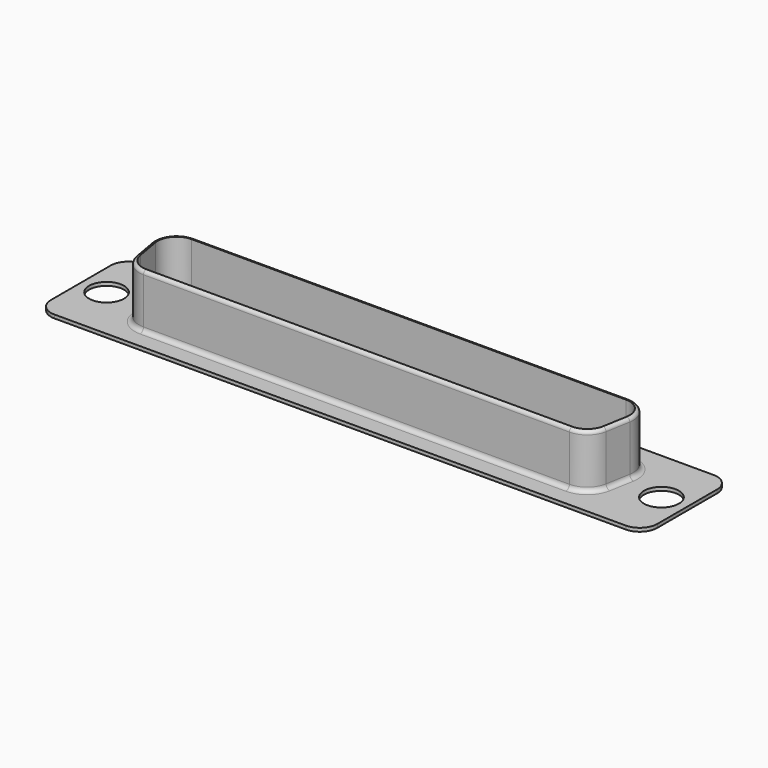
from build123d import *

# Parameters (mm, degrees)
PAD_DEPTH       = 0.4
SKETCH001_R     = 2
POCKET_DEPTH    = 5
PAD001_DEPTH    = 6.15
POCKET001_DEPTH = 6.551
FILLET_R        = 0.5
FILLET001_R     = 0.39
FILLET002_R     = 0.9


with BuildPart() as part:
    # Sketch → Pad (new body)
    with BuildSketch(Plane.XY):
        with BuildLine():
            Line((-32.7, 6.275), (32.7, 6.275))
            ThreePointArc((34.7, 4.275), (34.114214, 5.689214), (32.7, 6.275))
            Line((34.7, 4.275), (34.7, -4.275))
            ThreePointArc((32.7, -6.275), (34.114214, -5.689214), (34.7, -4.275))
            Line((32.7, -6.275), (-32.7, -6.275))
            ThreePointArc((-34.7, -4.275), (-34.114214, -5.689214), (-32.7, -6.275))
            Line((-34.7, -4.275), (-34.7, 4.275))
            ThreePointArc((-32.7, 6.275), (-34.114214, 5.689214), (-34.7, 4.275))
        make_face()
    extrude(amount=PAD_DEPTH)

    # Sketch001 (on Face10 of Pad) → Pocket (cut)
    with BuildSketch(Plane.XY.offset(0.4)):
        with Locations((-31.755, 0)):
            Circle(SKETCH001_R)
        with Locations((31.755, 0)):
            Circle(SKETCH001_R)
    extrude(amount=-POCKET_DEPTH, mode=Mode.SUBTRACT)

    # Sketch002 (on Face5 of Pocket) → Pad001 (join)
    with BuildSketch(Plane.XY.offset(0.4)):
        with BuildLine():
            Line((-24.865, 3.935), (24.865, 3.935))
            ThreePointArc((27.371365, 0.948231), (26.814529, 3.025959), (24.865, 3.935))
            Line((27.371365, 0.948231), (26.881365, -1.831769))
            ThreePointArc((24.375, -3.935), (26.010959, -3.339529), (26.881365, -1.831769))
            Line((24.375, -3.935), (-24.375, -3.935))
            ThreePointArc((-26.881365, -1.831769), (-26.010959, -3.339529), (-24.375, -3.935))
            Line((-26.881365, -1.831769), (-27.371365, 0.948231))
            ThreePointArc((-24.865, 3.935), (-26.814529, 3.025959), (-27.371365, 0.948231))
        make_face()
    extrude(amount=PAD001_DEPTH)

    # Sketch003 (on Face21 of Pad001) → Pocket001 (cut, through all)
    with BuildSketch(Plane.XY.offset(6.55)):
        with BuildLine():
            Line((-24.865, 3.535), (24.865, 3.535))
            ThreePointArc((26.977437, 1.017664), (26.50812, 2.768834), (24.865, 3.535))
            Line((26.977437, 1.017664), (26.487437, -1.762336))
            ThreePointArc((24.375, -3.535), (25.753834, -3.03312), (26.487437, -1.762336))
            Line((24.375, -3.535), (-24.375, -3.535))
            ThreePointArc((-26.487437, -1.762336), (-25.753834, -3.03312), (-24.375, -3.535))
            Line((-26.487437, -1.762336), (-26.977437, 1.017664))
            ThreePointArc((-24.865, 3.535), (-26.50812, 2.768834), (-26.977437, 1.017664))
        make_face()
    extrude(amount=-POCKET001_DEPTH, mode=Mode.SUBTRACT)

    # Fillet
    fillet_edges = [part.edges().sort_by_distance(p)[0] for p in [
        (0, -3.935, 0.4),
    ]]
    fillet(fillet_edges, radius=FILLET_R)

    # Fillet001
    fillet001_edges = [part.edges().sort_by_distance(p)[0] for p in [
        (-26.010959, -3.339529, 6.55),
    ]]
    fillet(fillet001_edges, radius=FILLET001_R)

    # Fillet002
    fillet002_edges = [part.edges().sort_by_distance(p)[0] for p in [
        (0, 3.535, 0),
    ]]
    fillet(fillet002_edges, radius=FILLET002_R)


solid = part.part
